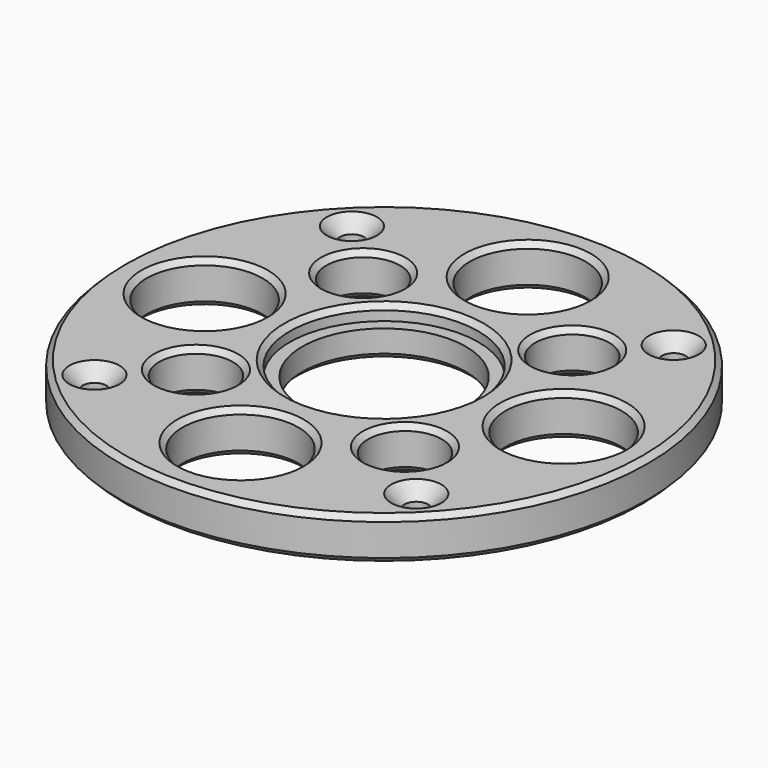
from build123d import *

# Parameters (mm, degrees)
SKETCH006_R     = 50
SKETCH006_R_2   = 2.25
SKETCH006_R_3   = 15.5
SKETCH006_R_4   = 11
SKETCH006_R_5   = 7
PAD004_DEPTH    = 8
SKETCH007_R     = 17.85
POCKET002_DEPTH = 2.8
CHAMFER004_SIZE = 2.5
CHAMFER005_SIZE = 1


with BuildPart() as part:
    # Sketch006 → Pad004 (new body)
    with BuildSketch(Plane.XY):
        Circle(SKETCH006_R)
        with Locations((-30.479838, 30.479838)):
            Circle(SKETCH006_R_2, mode=Mode.SUBTRACT)
        with Locations((30.479838, 30.479838)):
            Circle(SKETCH006_R_2, mode=Mode.SUBTRACT)
        with Locations((30.479838, -30.479838)):
            Circle(SKETCH006_R_2, mode=Mode.SUBTRACT)
        with Locations((-30.479838, -30.479838)):
            Circle(SKETCH006_R_2, mode=Mode.SUBTRACT)
        Circle(SKETCH006_R_3, mode=Mode.SUBTRACT)
        with Locations((34, 0)):
            Circle(SKETCH006_R_4, mode=Mode.SUBTRACT)
        with Locations((0, -34)):
            Circle(SKETCH006_R_4, mode=Mode.SUBTRACT)
        with Locations((0, 34)):
            Circle(SKETCH006_R_4, mode=Mode.SUBTRACT)
        with Locations((-34, 0)):
            Circle(SKETCH006_R_4, mode=Mode.SUBTRACT)
        with Locations((-19.79899, 19.79899)):
            Circle(SKETCH006_R_5, mode=Mode.SUBTRACT)
        with Locations((19.79899, -19.79899)):
            Circle(SKETCH006_R_5, mode=Mode.SUBTRACT)
        with Locations((19.79899, 19.79899)):
            Circle(SKETCH006_R_5, mode=Mode.SUBTRACT)
        with Locations((-19.79899, -19.79899)):
            Circle(SKETCH006_R_5, mode=Mode.SUBTRACT)
    extrude(amount=PAD004_DEPTH)

    # Sketch007 → Pocket002 (cut)
    with BuildSketch(Plane.XY.offset(8)):
        Circle(SKETCH007_R)
    extrude(amount=-POCKET002_DEPTH, mode=Mode.SUBTRACT)

    # Chamfer004
    chamfer004_edges = [part.edges().sort_by_distance(p)[0] for p in [
        (28.229838, 30.479838, 8),
        (28.229838, -30.479838, 8),
        (-32.729838, -30.479838, 8),
        (-32.729838, 30.479838, 8),
    ]]
    chamfer(chamfer004_edges, length=CHAMFER004_SIZE)

    # Chamfer005
    chamfer005_edges = [part.edges().sort_by_distance(p)[0] for p in [
        (-50, 0, 8),
        (12.79899, 19.79899, 8),
        (23, 0, 8),
        (12.79899, -19.79899, 8),
        (-11, -34, 8),
        (-26.79899, -19.79899, 8),
        (-45, 0, 8),
        (-26.79899, 19.79899, 8),
        (-17.85, 0, 8),
        (-50, 0, 0),
        (-15.5, 0, 0),
        (-45, 0, 0),
        (-11, 34, 0),
        (-11, -34, 0),
        (23, 0, 0),
        (-26.79899, -19.79899, 0),
        (12.79899, 19.79899, 0),
        (12.79899, -19.79899, 0),
        (-26.79899, 19.79899, 0),
        (-32.729838, -30.479838, 0),
        (28.229838, -30.479838, 0),
        (28.229838, 30.479838, 0),
        (-32.729838, 30.479838, 0),
        (-11, 34, 8),
    ]]
    chamfer(chamfer005_edges, length=CHAMFER005_SIZE)


solid = part.part
